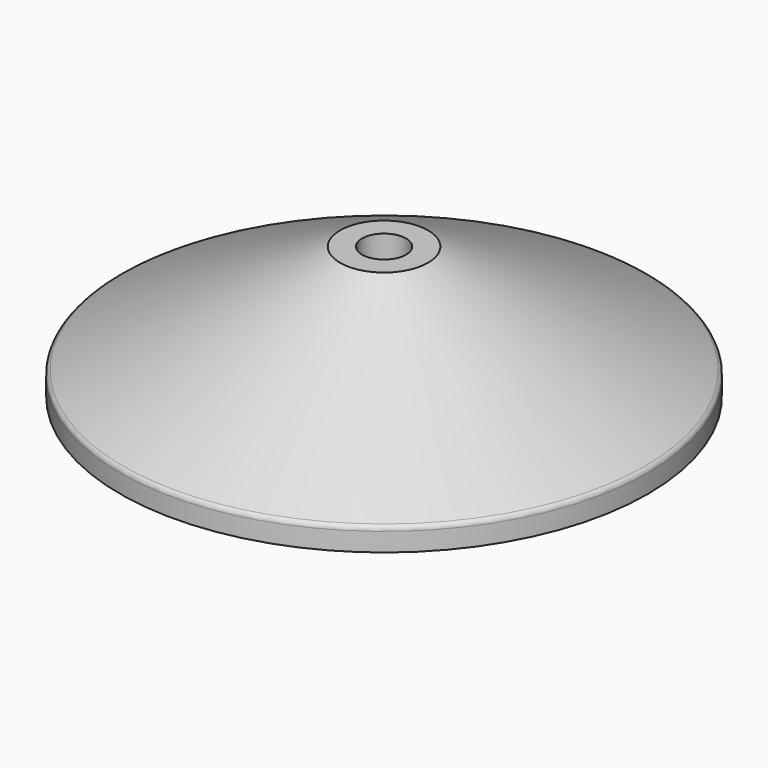
from build123d import *

# Parameters (mm, degrees)
F2_R     = 6.35
F4_D     = 50.8
F4_DEPTH = 50.8
F4_TIP   = 15.2618597233


with BuildPart() as f1:
    # F0 (on Front) → F1 (revolve)
    with BuildSketch(Plane.XZ):
        Polygon((0, 12.7), (0, 0), (304.8, 0), (304.8, 25.4), (50.8, 152.4), (0, 152.4), (0, 76.2), (50.8, 76.2), (50.8, 138.2009683429), (279.4, 23.9009683429), (279.4, 12.7), align=None)
    revolve(axis=Axis((0, 0, 114.3), (0, 0, 1)))

    # F2
    f2_edges = [f1.edges().sort_by_distance(p)[0] for p in [
        (-304.8, 0, 25.4),
    ]]
    fillet(f2_edges, radius=F2_R)

    # F4
    with Locations(Plane.XY.offset(152.4)):
        with Locations((0, 0)):
            Hole(F4_D / 2, depth=F4_DEPTH)
            with Locations((0, 0, -(F4_DEPTH + F4_TIP / 2))):  # 118° drill point
                Cone(0, F4_D / 2, F4_TIP, mode=Mode.SUBTRACT)


solid = f1.part
